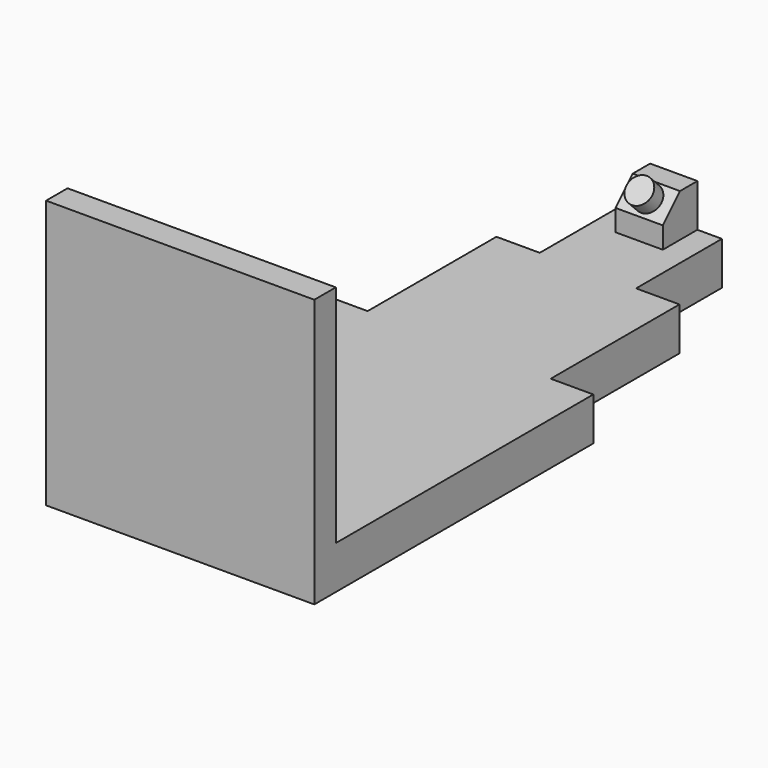
from build123d import *

# Parameters (mm, degrees)
F0_W      = 31.75
F0_H      = 31.75
F1_DEPTH  = 3.175
F3_D      = 2.54
F3_DEPTH  = 1.27
F3_TIP    = 0.7630929862
F4_W      = 31.75
F4_H      = 5.1026814207
F5_DEPTH  = 38.1
F6_W      = 21.6686837375
F6_H      = 5.1026814207
F7_DEPTH  = 19.05
F8_W      = 11.3971428946
F8_H      = 5.1026814207
F9_DEPTH  = 12.7
F10_W     = 5.5938977748
F10_H     = 5.1191067934
F11_DEPTH = 5.08
F12_SIZE  = 2.54
F14_ANGLE = -90
F15_R     = 1.5379719929
F16_DEPTH = 1.905


with BuildPart() as f1:
    # F0 (on Top) → F1 (new body)
    with BuildSketch(Plane.XY):
        Rectangle(F0_W, F0_H)
    extrude(amount=F1_DEPTH)

    # F3
    with Locations(Plane.XY.offset(3.175)):
        with Locations((-2.5495558511, 2.3657830898)):
            Hole(F3_D / 2, depth=F3_DEPTH)
            with Locations((0, 0, -(F3_DEPTH + F3_TIP / 2))):  # 118° drill point
                Cone(0, F3_D / 2, F3_TIP, mode=Mode.SUBTRACT)

    # F4 (on face) → F5 (join)
    with BuildSketch(Plane.XY.offset(3.175)):
        with Locations((0, 13.3236592896)):
            Rectangle(F4_W, F4_H)
    extrude(amount=F5_DEPTH)

    # F6 (on face) → F7 (join)
    with BuildSketch(Plane.XY.offset(41.275)):
        with Locations((0, 13.3236592896)):
            Rectangle(F6_W, F6_H)
    extrude(amount=F7_DEPTH)

    # F8 (on face) → F9 (join)
    with BuildSketch(Plane.XY.offset(60.325)):
        with Locations((0, 13.3236592896)):
            Rectangle(F8_W, F8_H)
    extrude(amount=F9_DEPTH)

    # F10 (on face) → F11 (join)
    with BuildSketch(Plane.XZ.offset(-10.7723185793)):
        with Locations((0, 70.4654466033)):
            Rectangle(F10_W, F10_H)
    extrude(amount=F11_DEPTH)

    # F12
    f12_edges = [f1.edges().sort_by_distance(p)[0] for p in [
        (0, 5.692319, 67.905893),
    ]]
    chamfer(f12_edges, length=F12_SIZE)


with BuildPart() as f1_1:
    # F14: moved
    add(f1.part.rotate(Axis((0, 15.8751159906, 0), (1, 0, 0)), F14_ANGLE))

    # F15 (on face) → F16 (join)
    with BuildSketch(Plane(origin=(0, 38.0691058929, -38.0691058929), x_dir=(1, 0, 0), z_dir=(0, -0.7071067812, 0.7071067812))):
        with Locations((0, 66.584341228)):
            Circle(F15_R)
    extrude(amount=F16_DEPTH)


solid = f1_1.part
